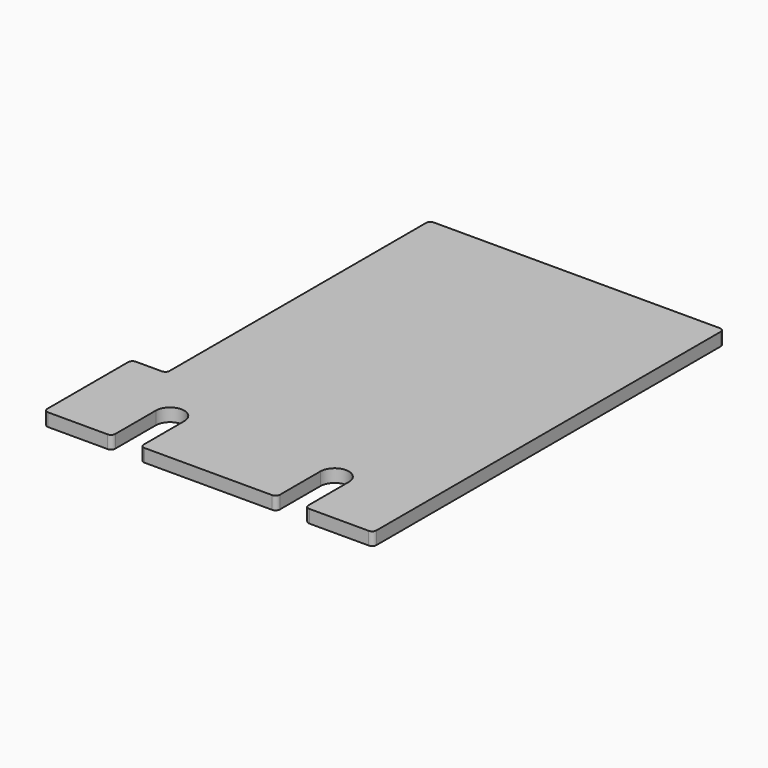
from build123d import *

# Parameters (mm, degrees)
PAD_DEPTH = 3


with BuildPart() as part:
    # Sketch → Pad (new body)
    with BuildSketch(Plane.XY):
        with BuildLine():
            ThreePointArc((-29.1, 50.8), (-29.807107, 50.507107), (-30.1, 49.8))
            Line((-30.1, 49.8), (-30.1, -24.4))
            ThreePointArc((-31.1, -25.4), (-30.392893, -25.107107), (-30.1, -24.4))
            Line((-37.1, -25.4), (-31.1, -25.4))
            ThreePointArc((-37.1, -25.4), (-37.807107, -25.692893), (-38.1, -26.4))
            Line((-38.1, -49.8), (-38.1, -26.4))
            ThreePointArc((-38.1, -49.8), (-37.807107, -50.507107), (-37.1, -50.8))
            Line((-37.1, -50.8), (-23.352, -50.8))
            ThreePointArc((-23.352, -50.8), (-22.644893, -50.507107), (-22.352, -49.8))
            Line((-22.352, -38.1), (-22.352, -49.8))
            ThreePointArc((-15.748, -38.1), (-19.05, -34.798), (-22.352, -38.1))
            Line((-15.748, -38.1), (-15.748, -49.8))
            ThreePointArc((-15.748, -49.8), (-15.455107, -50.507107), (-14.748, -50.8))
            Line((-14.748, -50.8), (14.748, -50.8))
            ThreePointArc((14.748, -50.8), (15.455107, -50.507107), (15.748, -49.8))
            Line((15.748, -38.1), (15.748, -49.8))
            ThreePointArc((22.352, -38.1), (19.05, -34.798), (15.748, -38.1))
            Line((22.352, -38.1), (22.352, -49.8))
            ThreePointArc((22.352, -49.8), (22.644893, -50.507107), (23.352, -50.8))
            Line((23.352, -50.8), (37.1, -50.8))
            ThreePointArc((37.1, -50.8), (37.807107, -50.507107), (38.1, -49.8))
            Line((38.1, 49.8), (38.1, -49.8))
            ThreePointArc((38.1, 49.8), (37.807107, 50.507107), (37.1, 50.8))
            Line((-29.1, 50.8), (37.1, 50.8))
        make_face()
    extrude(amount=PAD_DEPTH)


solid = part.part
